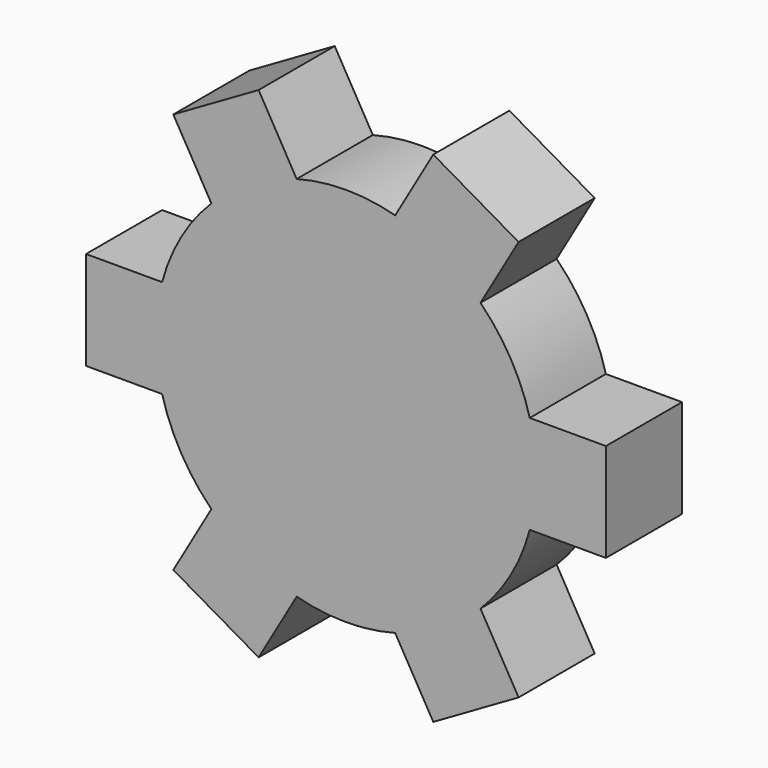
from build123d import *

# Parameters (mm, degrees)
F0_R     = 25.4
F1_DEPTH = 6.35
F3_DEPTH = 12.7
F5_COUNT = 6


with BuildPart() as f1:
    # F0 (on Front) → F1 (new body, symmetric)
    with BuildSketch(Plane.XZ):
        Circle(F0_R)
    extrude(amount=F1_DEPTH, both=True)

    # F2 (on face) → F3 (join)
    with BuildSketch(Plane.XZ.offset(6.35)):
        Polygon((24.534516, 6.574004), (0, 0), (24.534516, 0), align=None)
        Polygon((24.534516, 0), (0, 0), (24.534516, -6.574004), align=None)
        with BuildLine():
            Line((25.4, 0), (24.534516, 0))
            Line((24.534516, 0), (24.534516, -6.574004))
            ThreePointArc((24.534516, -6.574004), (25.182699, -3.315365), (25.4, 0))
        make_face()
        with BuildLine():
            Line((24.534516, 6.574004), (24.534516, 0))
            Line((24.534516, 0), (25.4, 0))
            ThreePointArc((25.4, 0), (25.182699, 3.315365), (24.534516, 6.574004))
        make_face()
        with BuildLine():
            Line((34.694516, 6.574004), (24.534516, 6.574004))
            ThreePointArc((24.534516, 6.574004), (25.182699, 3.315365), (25.4, 0))
            ThreePointArc((25.4, 0), (25.182699, -3.315365), (24.534516, -6.574004))
            Line((24.534516, -6.574004), (34.694516, -6.574004))
            Line((34.694516, -6.574004), (34.694516, 6.574004))
        make_face()
    extrude(amount=-F3_DEPTH)

    # F5: F1 ×6 about axis
    f5_axis = Axis((0, -14.801851, 0), (0, 1, 0))


with BuildPart() as f1_1:
    add(f1.part)
    for i in range(1, F5_COUNT):
        add(f1.part.rotate(f5_axis, i * 360 / F5_COUNT))


solid = f1_1.part
